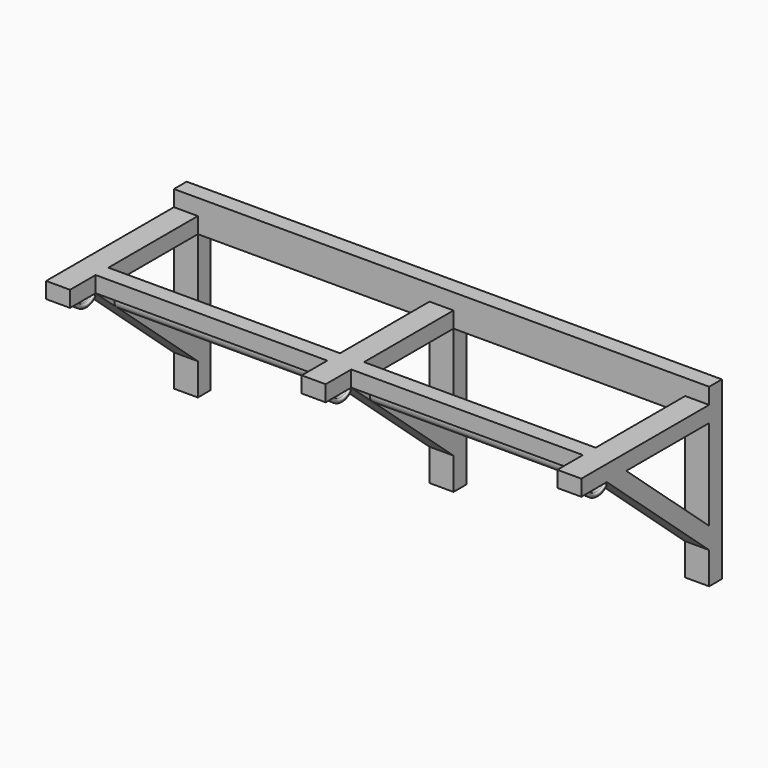
from build123d import *

# Parameters (mm, degrees)
F0_W           = 38.1
F0_H           = 228.6
F0_H_2         = 25.4
F0_W_2         = 368.3
F1_DEPTH       = 25.4
F2_W           = 38.1
F2_H           = 25.4
F3_DEPTH       = 203.2
F4_W           = 850.9
F4_H           = 25.4
F5_DEPTH       = 25.4
F7_DEPTH       = 38.1
F9_DEPTH       = 38.1
F10_DEPTH      = 38.1
F12_DEPTH      = 25.4
F14_R          = 25.4
F14_R_2        = 19.05
F15_DEPTH      = 5.08
F15_DEPTH_BACK = 5.08
F17_R          = 25.4
F17_R_2        = 19.05
F18_DEPTH      = 5.08
F18_DEPTH_BACK = 5.08
F19_R          = 2.54
F20_W          = 774.7852574348
F20_H          = 25.4
F21_DEPTH      = 25.4
F23_DEPTH      = 19.05
F23_DEPTH_BACK = 19.05
F24_R          = 25.4
F24_R_2        = 19.05
F25_DEPTH      = 5.08
F25_DEPTH_BACK = 5.08
F26_R          = 2.54
F27_R          = 12.7
F28_DEPTH      = 850.9


with BuildPart() as f1:
    # F0 (on Front) → F1 (new body)
    with BuildSketch(Plane.XZ):
        with Locations((0, -25.4)):
            Rectangle(F0_W, F0_H)
        with Locations((0, 101.6)):
            Rectangle(F0_W, F0_H_2)
        with Locations((203.2, 101.6)):
            Rectangle(F0_W_2, F0_H_2)
        with Locations((-203.2, 101.6)):
            Rectangle(F0_W_2, F0_H_2)
        with Locations((0, 127)):
            Rectangle(F0_W, F0_H_2)
        with Locations((406.4, -25.4)):
            Rectangle(F0_W, F0_H)
        with Locations((406.4, 101.6)):
            Rectangle(F0_W, F0_H_2)
        with Locations((-406.4, 101.6)):
            Rectangle(F0_W, F0_H_2)
        with Locations((-406.4, -25.4)):
            Rectangle(F0_W, F0_H)
        with Locations((406.4, 127)):
            Rectangle(F0_W, F0_H_2)
        with Locations((-406.4, 127)):
            Rectangle(F0_W, F0_H_2)
    extrude(amount=F1_DEPTH)

    # F2 (on face) → F3 (join)
    with BuildSketch(Plane.XZ.offset(25.4)):
        with Locations((-406.4, 101.6)):
            Rectangle(F2_W, F2_H)
        with Locations((0, 101.6)):
            Rectangle(F2_W, F2_H)
        with Locations((406.4, 101.6)):
            Rectangle(F2_W, F2_H)
    extrude(amount=F3_DEPTH)

    # F4 (on face) → F5 (join)
    with BuildSketch(Plane.XY.offset(114.3)):
        with Locations((0, -215.9)):
            Rectangle(F4_W, F4_H)
    extrude(amount=-F5_DEPTH)

    # F6 (on face) → F7 (join)
    with BuildSketch(Plane(origin=(-425.45, 0, 0), x_dir=(0, -1, 0), z_dir=(-1, 0, 0))):
        Polygon((25.4, -88.9), (228.6, 88.9), (190.0277566224, 88.9), (25.4, -55.1492870446), align=None)
    extrude(amount=-F7_DEPTH)

    # F8 (on face) → F9 (join)
    with BuildSketch(Plane.YZ.offset(425.45)):
        Polygon((-25.4, -55.1492870446), (-190.0277566224, 88.9), (-228.6, 88.9), (-25.4, -88.9), align=None)
    extrude(amount=-F9_DEPTH)

    # F6 (on face) → F10 (join)
    with BuildSketch(Plane(origin=(-425.45, 0, 0), x_dir=(0, -1, 0), z_dir=(-1, 0, 0))):
        Polygon((25.4, -88.9), (228.6, 88.9), (190.0277566224, 88.9), (25.4, -55.1492870446), align=None)
    extrude(amount=-F10_DEPTH)

    # F11 (on face) → F12 (join)
    with BuildSketch(Plane.XY.offset(114.3)):
        Polygon((-425.45, -228.6), (-425.45, -279.4), (-387.35, -279.4), (-387.35, -228.6), (-387.35, -215.9), (-425.45, -215.9), align=None)
        Polygon((-19.05, -228.6), (-19.05, -279.4), (19.05, -279.4), (19.05, -228.6), (19.05, -215.9), (-19.05, -215.9), align=None)
        Polygon((387.35, -228.6), (387.35, -279.4), (425.45, -279.4), (425.45, -228.6), (425.45, -215.9), (387.35, -215.9), align=None)
    extrude(amount=-F12_DEPTH)

    # F14 (on offset) → F15 (join, two sides)
    with BuildSketch(Plane(origin=(-406.4, 0, 0), x_dir=(0, -1, 0), z_dir=(-1, 0, 0))) as f15_sk:
        with Locations((228.6, 88.9)):
            Circle(F14_R)
        with Locations((228.6, 88.9)):
            Circle(F14_R_2, mode=Mode.SUBTRACT)
    extrude(amount=-F15_DEPTH)
    extrude(f15_sk.sketch, amount=F15_DEPTH_BACK)

    # F17 (on offset) → F18 (join, two sides)
    with BuildSketch(Plane.YZ.offset(406.4)) as f18_sk:
        with Locations((-228.6, 88.9)):
            Circle(F17_R)
        with Locations((-228.6, 88.9)):
            Circle(F17_R_2, mode=Mode.SUBTRACT)
    extrude(amount=F18_DEPTH)
    extrude(f18_sk.sketch, amount=-F18_DEPTH_BACK)

    # F19
    f19_edges = [f1.edges().sort_by_distance(p)[0] for p in [
        (411.48, -237.533857, 65.12299),
        (411.48, -235.300393, 71.067243),
        (401.32, -235.300393, 71.067243),
        (401.32, -237.533857, 65.12299),
        (-401.32, -235.300393, 71.067243),
        (-401.32, -237.533857, 65.12299),
        (-411.48, -235.300393, 71.067243),
        (-411.48, -237.533857, 65.12299),
    ]]
    fillet(f19_edges, radius=F19_R)

    # F20 (on face) → F21 (join)
    with BuildSketch(Plane.XZ.offset(25.4)):
        with Locations((0.0426287174, 127)):
            Rectangle(F20_W, F20_H)
    extrude(amount=-F21_DEPTH)

    # F22 (on Right) → F23 (join, two sides)
    with BuildSketch(Plane.YZ) as f23_sk:
        Polygon((-20.8392995943, -92.890612855), (-20.8392995943, -59.1398998995), (-208.7545224981, 105.2859201413), (-247.3267658758, 105.2859201413), align=None)
    extrude(amount=F23_DEPTH)
    extrude(f23_sk.sketch, amount=-F23_DEPTH_BACK)

    # F24 (on Right) → F25 (join, two sides)
    with BuildSketch(Plane.YZ) as f25_sk:
        with Locations((-228.6, 88.9)):
            Circle(F24_R)
        with Locations((-228.6, 88.9)):
            Circle(F24_R_2, mode=Mode.SUBTRACT)
    extrude(amount=F25_DEPTH)
    extrude(f25_sk.sketch, amount=-F25_DEPTH_BACK)

    # F26
    f26_edges = [f1.edges().sort_by_distance(p)[0] for p in [
        (5.08, -235.300393, 71.067243),
        (5.08, -237.533857, 65.12299),
        (-5.08, -235.300393, 71.067243),
        (-5.08, -237.533857, 65.12299),
    ]]
    fillet(f26_edges, radius=F26_R)

    # F27 (on face) → F28 (join)
    with BuildSketch(Plane.YZ.offset(425.45)):
        with Locations((-178.6570634085, 62.0752869602)):
            Circle(F27_R)
    extrude(amount=-F28_DEPTH)


solid = f1.part
